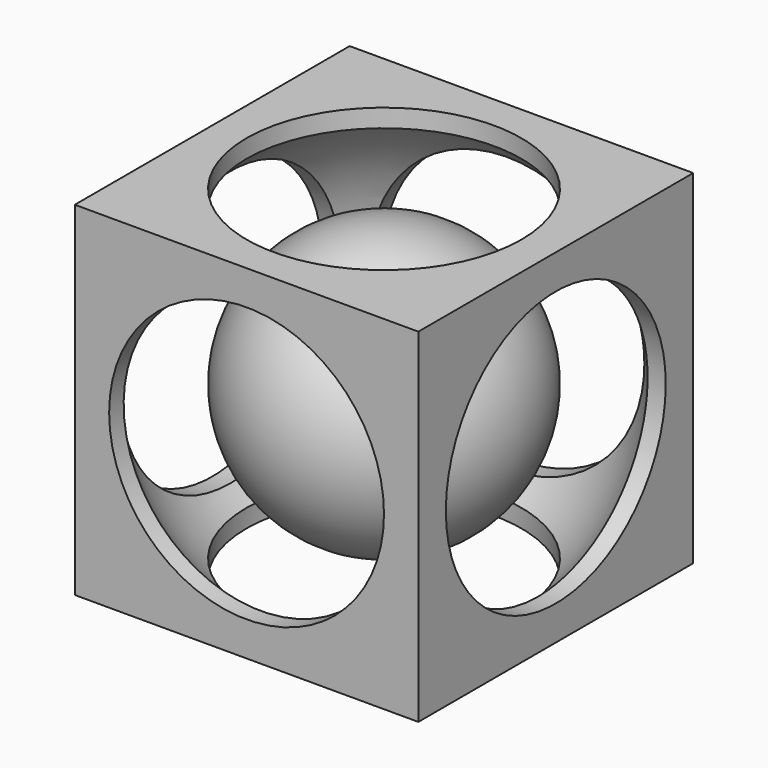
from build123d import *

# Parameters (mm, degrees)
CYLINDER002_R     = 12
CYLINDER002_DEPTH = 35
CYLINDER003_R     = 12
CYLINDER003_DEPTH = 35
CYLINDER001_R     = 12
CYLINDER001_DEPTH = 35
BOX_W             = 30
BOX_H             = 30
BOX_DEPTH         = 30


with BuildPart() as esfera:
    # Sphere → Sphere (revolve)
    with BuildSketch(Plane(origin=(15, 15, 15), x_dir=(1, 0, 0), z_dir=(0, -1, 0))):
        with BuildLine():
            ThreePointArc((0, -12), (12, 0), (0, 12))
            Line((0, 12), (0, -12))
        make_face()
    revolve(axis=Axis((15, 15, 15), (0, 0, 1)))


with BuildPart() as esfera001:
    # Sphere001 → Sphere001 (revolve)
    with BuildSketch(Plane(origin=(15, 15, 15), x_dir=(1, 0, 0), z_dir=(0, -1, 0))):
        with BuildLine():
            ThreePointArc((0, -18), (18, 0), (0, 18))
            Line((0, 18), (0, -18))
        make_face()
    revolve(axis=Axis((15, 15, 15), (0, 0, 1)))


with BuildPart() as cilindre002:
    # Cylinder002 → Cylinder002 (new body)
    with BuildSketch(Plane(origin=(15, 15, -2.5), x_dir=(1, 0, 0), z_dir=(0, 0, 1))):
        Circle(CYLINDER002_R)
    extrude(amount=CYLINDER002_DEPTH)


with BuildPart() as cilindre003:
    # Cylinder003 → Cylinder003 (new body)
    with BuildSketch(Plane(origin=(32.5, 15, 15), x_dir=(0, -1, 0), z_dir=(-1, 0, 0))):
        Circle(CYLINDER003_R)
    extrude(amount=CYLINDER003_DEPTH)


with BuildPart() as fusion:
    # Cylinder001 → Cylinder001 (new body)
    with BuildSketch(Plane(origin=(15, -2.5, 15), x_dir=(1, 0, 0), z_dir=(0, 1, 0))):
        Circle(CYLINDER001_R)
    extrude(amount=CYLINDER001_DEPTH)

    # Fusion: union Cilindre002, Cilindre003
    add(cilindre002.part)
    add(cilindre003.part)


with BuildPart() as cut001:
    # Box → Box (new body)
    with BuildSketch(Plane.XY):
        with Locations((15, 15)):
            Rectangle(BOX_W, BOX_H)
    extrude(amount=BOX_DEPTH)

    # Cut: cut Fusion
    add(fusion.part, mode=Mode.SUBTRACT)

    # Cut001: cut Esfera001
    add(esfera001.part, mode=Mode.SUBTRACT)


solid = Compound([esfera.part, cut001.part])
